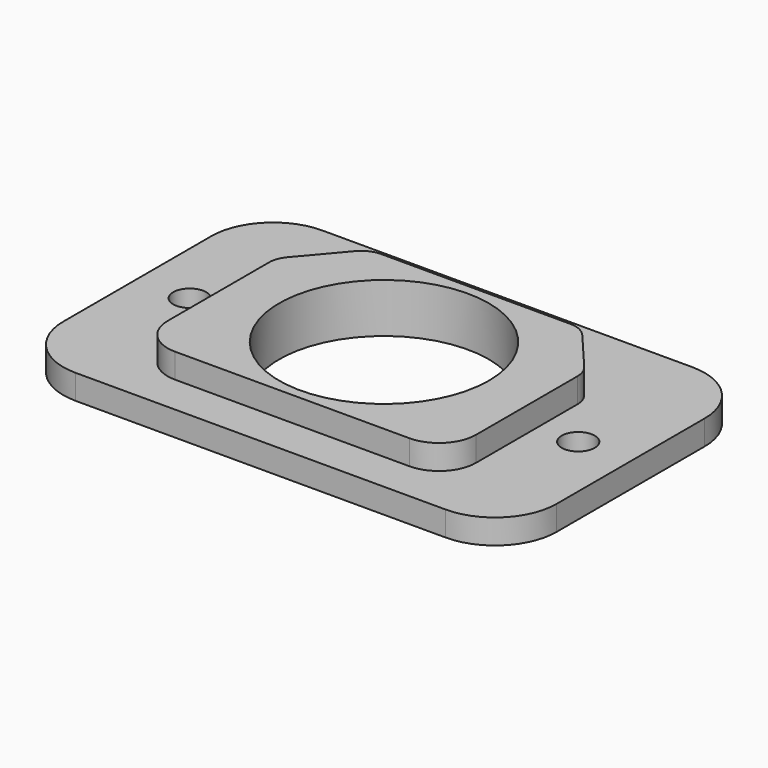
from build123d import *

# Parameters (mm, degrees)
F1_DEPTH = 2.54
F3_DEPTH = 2.54
F4_R     = 10.795
F4_R_2   = 1.7
F5_DEPTH = 5.081


with BuildPart() as f1:
    # F0 (on Top) → F1 (new body)
    with BuildSketch(Plane.XY):
        with BuildLine():
            Line((-19.05, -15.875), (19.05, -15.875))
            ThreePointArc((19.05, -15.875), (23.540128, -14.015128), (25.4, -9.525))
            Line((25.4, -9.525), (25.4, 9.525))
            ThreePointArc((25.4, 9.525), (23.540128, 14.015128), (19.05, 15.875))
            Line((19.05, 15.875), (-19.05, 15.875))
            ThreePointArc((-19.05, 15.875), (-23.540128, 14.015128), (-25.4, 9.525))
            Line((-25.4, 9.525), (-25.4, -9.525))
            ThreePointArc((-25.4, -9.525), (-23.540128, -14.015128), (-19.05, -15.875))
        make_face()
    extrude(amount=F1_DEPTH)

    # F2 (on face) → F3 (join)
    with BuildSketch(Plane.XY.offset(2.54)):
        with BuildLine():
            Line((-12.065, -11.811), (12.065, -11.811))
            ThreePointArc((12.065, -11.811), (14.759077, -10.695077), (15.875, -8.001))
            Line((15.875, -8.001), (15.875, 5.037175))
            ThreePointArc((15.875, 5.037175), (15.719597, 5.911989), (15.272403, 6.679756))
            Line((15.272403, 6.679756), (11.682856, 10.913581))
            ThreePointArc((11.682856, 10.913581), (10.813031, 11.575751), (9.745453, 11.811))
            Line((9.745453, 11.811), (-9.745453, 11.811))
            ThreePointArc((-9.745453, 11.811), (-10.813031, 11.575751), (-11.682856, 10.913581))
            Line((-11.682856, 10.913581), (-15.272403, 6.679756))
            ThreePointArc((-15.272403, 6.679756), (-15.719597, 5.911989), (-15.875, 5.037175))
            Line((-15.875, 5.037175), (-15.875, -8.001))
            ThreePointArc((-15.875, -8.001), (-14.759077, -10.695077), (-12.065, -11.811))
        make_face()
    extrude(amount=F3_DEPTH)

    # F4 (on face) → F5 (cut, through all)
    with BuildSketch(Plane.XY.offset(5.08)):
        Circle(F4_R)
        with Locations((-20, 0)):
            Circle(F4_R_2)
        with Locations((20, 0)):
            Circle(F4_R_2)
    extrude(amount=-F5_DEPTH, mode=Mode.SUBTRACT)


solid = f1.part
